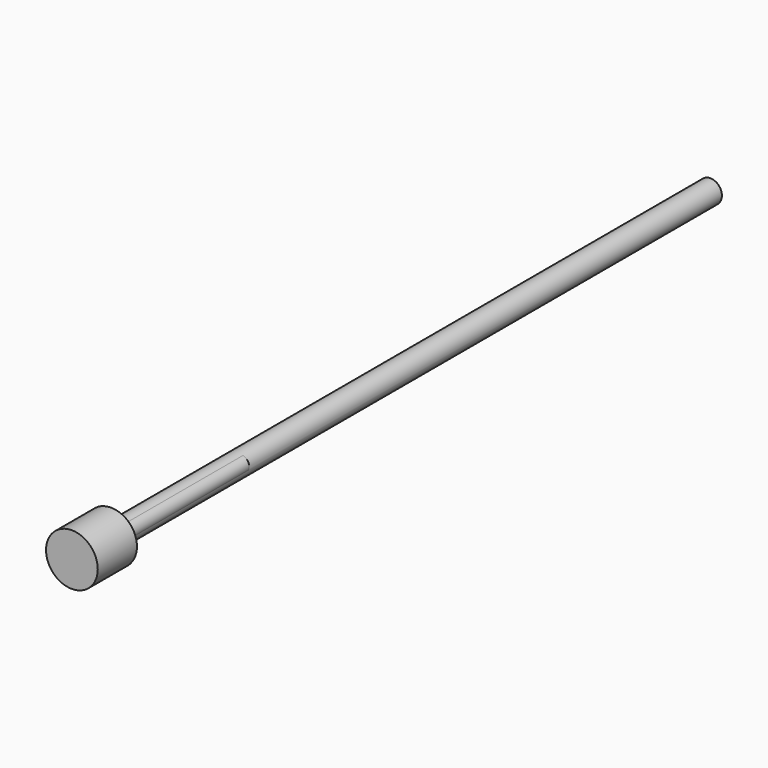
from build123d import *

# Parameters (mm, degrees)
F0_R     = 3.354118
F1_DEPTH = 6.35
F2_R     = 1.499831
F3_DEPTH = 97.282
F4_R     = 1.083943
F5_DEPTH = 20.574


with BuildPart() as f1:
    # F0 (on Front) → F1 (new body)
    with BuildSketch(Plane.XZ):
        with Locations((-35.692804, 10.552901)):
            Circle(F0_R)
    extrude(amount=F1_DEPTH)

    # F2 (on Front) → F3 (join)
    with BuildSketch(Plane.XZ):
        with Locations((-35.80986, 10.426732)):
            Circle(F2_R)
    extrude(amount=-F3_DEPTH)

    # F4 (on Front) → F5 (join)
    with BuildSketch(Plane.XZ):
        with Locations((-35.32517, 10.668001)):
            Circle(F4_R)
    extrude(amount=-F5_DEPTH)


solid = f1.part
